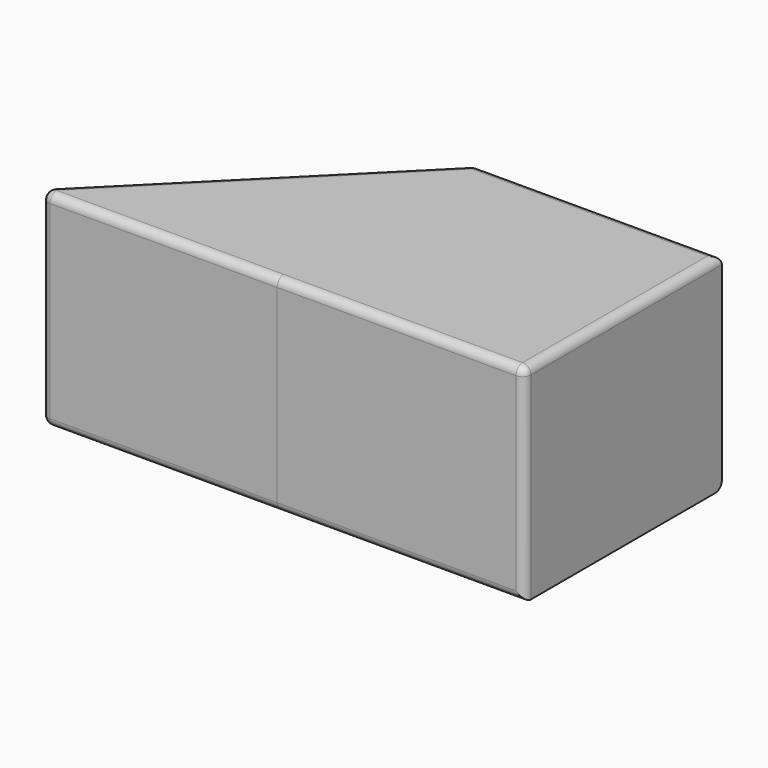
from build123d import *

# Parameters (mm, degrees)
F0_W     = 30
F0_H     = 30
F1_DEPTH = 25
F2_R     = 1


with BuildPart() as f1:
    # F0 (on Top) → F1 (new body)
    with BuildSketch(Plane.XY):
        with Locations((-9.894624, 1.663389)):
            Rectangle(F0_W, F0_H)
        Polygon((-24.894624, -13.336611), (-24.894624, 16.663389), (-54.894623, -13.327551), align=None)
    extrude(amount=F1_DEPTH)

    # F2
    f2_edges = [f1.edges().sort_by_distance(p)[0] for p in [
        (-39.894624, 1.667919, 25),
        (-39.894624, -13.332081, 25),
        (-9.894624, -13.336611, 25),
        (-9.894624, 16.663389, 25),
        (5.105376, 1.663389, 25),
        (-54.894623, -13.327551, 12.5),
        (-39.894624, -13.332081, 0),
        (-9.894624, -13.336611, 0),
        (5.105376, -13.336611, 12.5),
        (-24.894624, -13.336611, 12.5),
        (-39.894624, 1.667919, 0),
        (-24.894624, 16.663389, 12.5),
        (-9.894624, 16.663389, 0),
    ]]
    fillet(f2_edges, radius=F2_R)


solid = f1.part
